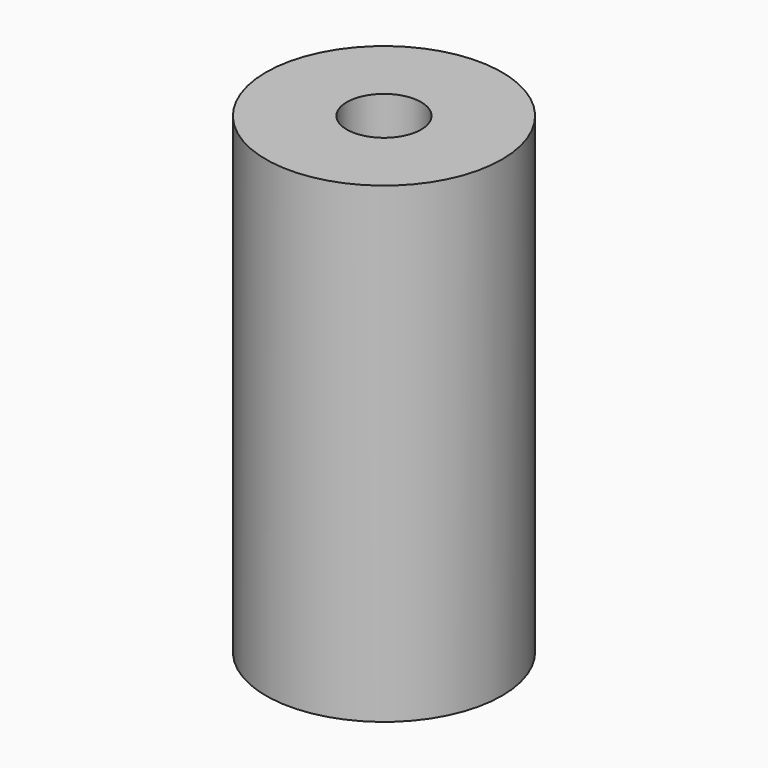
from build123d import *

# Parameters (mm, degrees)
F0_R     = 12.7
F2_DEPTH = 50.8
F1_R     = 4.0005
F3_DEPTH = 50.801


with BuildPart() as f2:
    # F0 (on Top) → F2 (new body)
    with BuildSketch(Plane.XY):
        Circle(F0_R)
    extrude(amount=F2_DEPTH)

    # F1 (on face) → F3 (cut, through all)
    with BuildSketch(Plane.XY):
        Circle(F1_R)
    extrude(amount=F3_DEPTH, mode=Mode.SUBTRACT)


solid = f2.part
